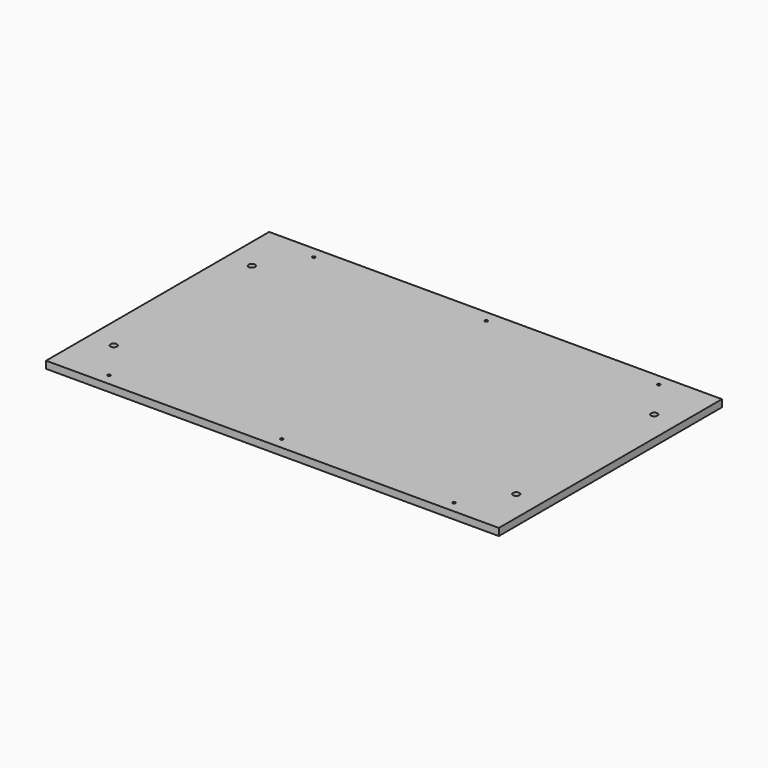
from build123d import *

# Parameters (mm, degrees)
SKETCH_W        = 315
SKETCH_H        = 194
PAD_DEPTH       = 5
SKETCH001_R     = 1
POCKET_DEPTH    = 5.001
SKETCH002_R     = 2.25
POCKET001_DEPTH = 5.001


with BuildPart() as part:
    # Sketch → Pad (new body)
    with BuildSketch(Plane.XY):
        Rectangle(SKETCH_W, SKETCH_H)
    extrude(amount=PAD_DEPTH)

    # Sketch001 (on Face6 of Pad) → Pocket (cut, through all)
    with BuildSketch(Plane.XY.offset(5)):
        with Locations((-120, 89)):
            Circle(SKETCH001_R)
        with Locations((0, 89)):
            Circle(SKETCH001_R)
        with Locations((120, 89)):
            Circle(SKETCH001_R)
        with Locations((-120, -89)):
            Circle(SKETCH001_R)
        with Locations((0, -89)):
            Circle(SKETCH001_R)
        with Locations((120, -89)):
            Circle(SKETCH001_R)
    extrude(amount=-POCKET_DEPTH, mode=Mode.SUBTRACT)

    # Sketch002 (on Face5 of Pocket) → Pocket001 (cut, through all)
    with BuildSketch(Plane.XY.offset(5)):
        with Locations((-140, 60)):
            Circle(SKETCH002_R)
        with Locations((140, 60)):
            Circle(SKETCH002_R)
        with Locations((-140, -60)):
            Circle(SKETCH002_R)
        with Locations((140, -60)):
            Circle(SKETCH002_R)
    extrude(amount=-POCKET001_DEPTH, mode=Mode.SUBTRACT)


solid = part.part
